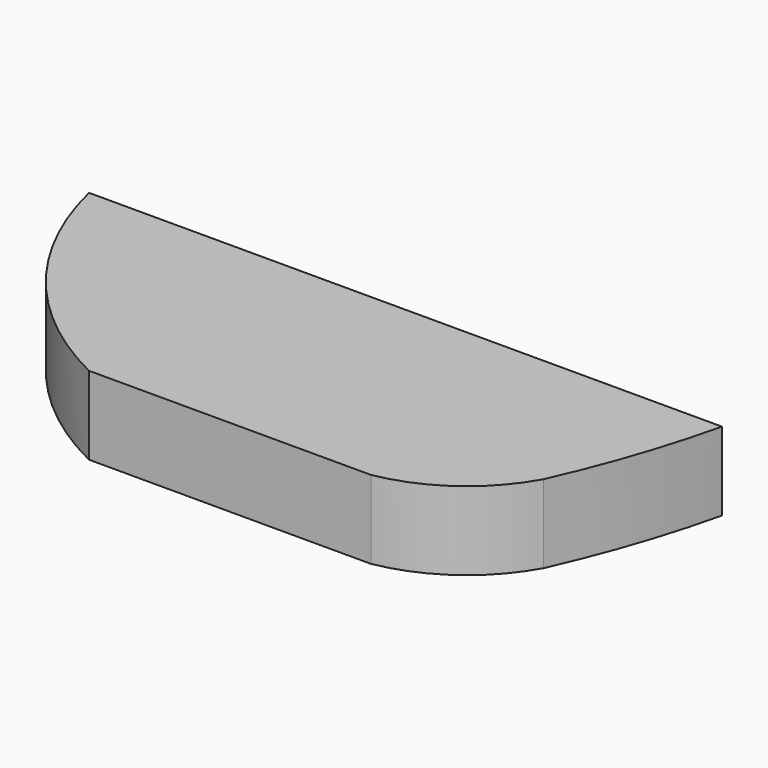
from build123d import *

# Parameters (mm, degrees)
PAD_DEPTH = 10


with BuildPart() as part:
    # Sketch001 → Pad (new body)
    with BuildSketch(Plane.XY):
        with BuildLine():
            ThreePointArc((24, -6), (32.130235, -2.582329), (38, 4))
            ThreePointArc((38, 4), (41.881212, 13.836388), (44.8, 24))
            Line((-36, 24), (44.8, 24))
            ThreePointArc((-36, 24), (-27.362437, 6.310051), (-12, -6))
            Line((-12, -6), (24, -6))
        make_face()
    extrude(amount=PAD_DEPTH)


solid = part.part
